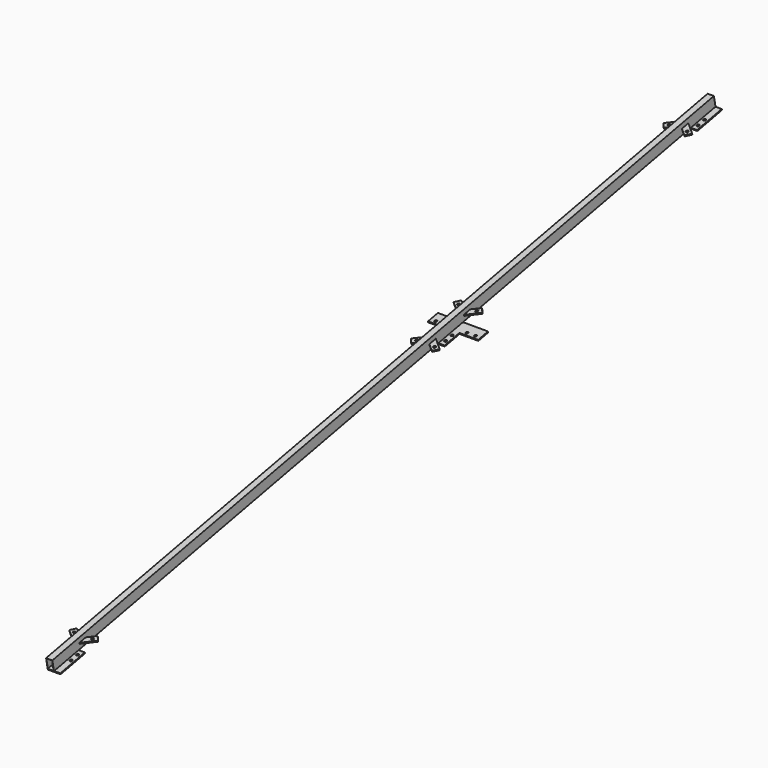
from build123d import *

# Parameters (mm, degrees)
F3_W           = 30
F3_H           = 50
F3_W_2         = 28
F3_H_2         = 48
F4_DEPTH       = 30
F4_DEPTH_BACK  = 4000
F5_R           = 6
F5_W           = 30
F5_H           = 150
F6_DEPTH       = 5
F7_R           = 6
F7_W           = 90
F7_H           = 60
F8_DEPTH       = 5
F9_R           = 6
F10_DEPTH      = 4.8
F11_R          = 6
F12_DEPTH      = 2.5
F12_DEPTH_BACK = 2.5


with BuildPart() as f4:
    # F3 (on face) → F4 (new body, two sides)
    with BuildSketch(Plane(origin=(0, 0, 0), x_dir=(1, 0, 0), z_dir=(0, -0.9816271834, -0.1908089954))) as f4_sk:
        Rectangle(F3_W, F3_H)
        Rectangle(F3_W_2, F3_H_2, mode=Mode.SUBTRACT)
    extrude(amount=F4_DEPTH)
    extrude(f4_sk.sketch, amount=-F4_DEPTH_BACK)

    # F5 (on face) → F6 (join)
    with BuildSketch(Plane(origin=(0, 4.7702248844, -24.5406795862), x_dir=(1, 0, 0), z_dir=(0, 0.1908089954, -0.9816271834))):
        Polygon((15, -4000), (45, -4000), (45, -3940), (45, -3850), (15, -3850), align=None)
        with Locations((30, -3915)):
            Circle(F5_R, mode=Mode.SUBTRACT)
        with Locations((30, -3875)):
            Circle(F5_R, mode=Mode.SUBTRACT)
        with Locations((0, -3925)):
            Rectangle(F5_W, F5_H)
    extrude(amount=F6_DEPTH)

    # F7 (on face) → F8 (join)
    with BuildSketch(Plane(origin=(0, 4.7702248844, -24.5406795862), x_dir=(1, 0, 0), z_dir=(0, 0.1908089954, -0.9816271834))):
        Polygon((15, -2461.6451083533), (15, -2311.6451083533), (-15, -2311.6451083533), (-15, -2401.6451083533), (-15, -2461.6451083533), align=None)
        Polygon((45, -2461.6451083533), (45, -2401.6451083533), (45, -2311.6451083533), (15, -2311.6451083533), (15, -2461.6451083533), align=None)
        with Locations((30, -2376.6451083533)):
            Circle(F7_R, mode=Mode.SUBTRACT)
        with Locations((30, -2336.6451083533)):
            Circle(F7_R, mode=Mode.SUBTRACT)
        with Locations((-60, -2431.6451083533)):
            Rectangle(F7_W, F7_H)
        with Locations((-80, -2416.6451083533)):
            Circle(F7_R, mode=Mode.SUBTRACT)
        with Locations((-40, -2416.6451083533)):
            Circle(F7_R, mode=Mode.SUBTRACT)
        with Locations((90, -2431.6451083533)):
            Rectangle(F7_W, F7_H)
        with Locations((70, -2416.6451083533)):
            Circle(F7_R, mode=Mode.SUBTRACT)
        with Locations((110, -2416.6451083533)):
            Circle(F7_R, mode=Mode.SUBTRACT)
    extrude(amount=F8_DEPTH)

    # F9 (on face) → F10 (join)
    with BuildSketch(Plane(origin=(0, 4.7702248844, -24.5406795862), x_dir=(1, 0, 0), z_dir=(0, 0.1908089954, -0.9816271834))):
        Polygon((-15, 29.0015184707), (-15, -120.0265799836), (45, -120.0265799836), (45, -30.0265799836), (45, 29.0015184707), align=None)
        with Locations((30, -95.0265799837)):
            Circle(F9_R, mode=Mode.SUBTRACT)
        with Locations((30, -55.0265799837)):
            Circle(F9_R, mode=Mode.SUBTRACT)
    extrude(amount=F10_DEPTH)

    # F11 (on line) → F12 (join, two sides)
    with BuildSketch(Plane(origin=(0, 0, 0), x_dir=(1, 0, 0), z_dir=(0, 0.1908089954, -0.9816271834))) as f12_sk:
        Polygon((15, -3800.8401286151), (15, -3840), (68.6263252593, -3795.0086981831), (49.3443387664, -3772.0259873577), align=None)
        with Locations((43.2705051734, -3796.7017352104)):
            Circle(F11_R, mode=Mode.SUBTRACT)
        Polygon((14.8702725282, -2510.6961412562), (15, -2510.8049797382), (15, -2471.6451083533), align=None)
        Polygon((15, -2471.6451083533), (15, -2510.8049797382), (49.3443387664, -2539.6191209957), (68.6263252593, -2516.6364101702), align=None)
        with Locations((43.2705051734, -2514.943373143)):
            Circle(F11_R, mode=Mode.SUBTRACT)
        Polygon((14.8702725282, -3800.9489670971), (15, -3840), (15, -3800.8401286151), align=None)
        Polygon((49.3443387664, -2233.671095711), (15, -2262.4852369684), (15, -2301.6451083533), (68.6263252593, -2256.6538065364), align=None)
        with Locations((43.2705051734, -2258.3468435637)):
            Circle(F11_R, mode=Mode.SUBTRACT)
        Polygon((15, -2301.6451083533), (15, -2262.4852369684), (14.8702725282, -2262.5940754504), align=None)
        Polygon((15, -169.185568556), (15, -130.0256971711), (14.8702725282, -169.0767300739), align=None)
        Polygon((68.6263252593, -175.016998988), (15, -130.0256971711), (15, -169.185568556), (49.3443387664, -197.9997098134), align=None)
        with Locations((43.2705051734, -173.3239619607)):
            Circle(F11_R, mode=Mode.SUBTRACT)
        Polygon((-68.6263252593, -175.016998988), (-49.3443387664, -197.9997098134), (-15, -169.185568556), (-15, -130.0256971711), align=None)
        with Locations((-43.2705051734, -173.3239619607)):
            Circle(F11_R, mode=Mode.SUBTRACT)
        Polygon((-15, -2301.6451083533), (-15, -2262.4852369684), (-49.3443387664, -2233.671095711), (-68.6263252593, -2256.6538065364), align=None)
        with Locations((-43.2705051734, -2258.3468435637)):
            Circle(F11_R, mode=Mode.SUBTRACT)
        Polygon((-14.8702725282, -2510.6961412562), (-15, -2471.6451083533), (-68.6263252593, -2516.6364101702), (-49.3443387664, -2539.6191209957), align=None)
        with Locations((-43.2705051734, -2514.943373143)):
            Circle(F11_R, mode=Mode.SUBTRACT)
        Polygon((-68.6263252593, -3795.0086981831), (-15, -3840), (-14.8702725282, -3800.9489670971), (-49.3443387664, -3772.0259873577), align=None)
        with Locations((-43.2705051734, -3796.7017352104)):
            Circle(F11_R, mode=Mode.SUBTRACT)
    extrude(amount=F12_DEPTH)
    extrude(f12_sk.sketch, amount=-F12_DEPTH_BACK)


solid = f4.part
